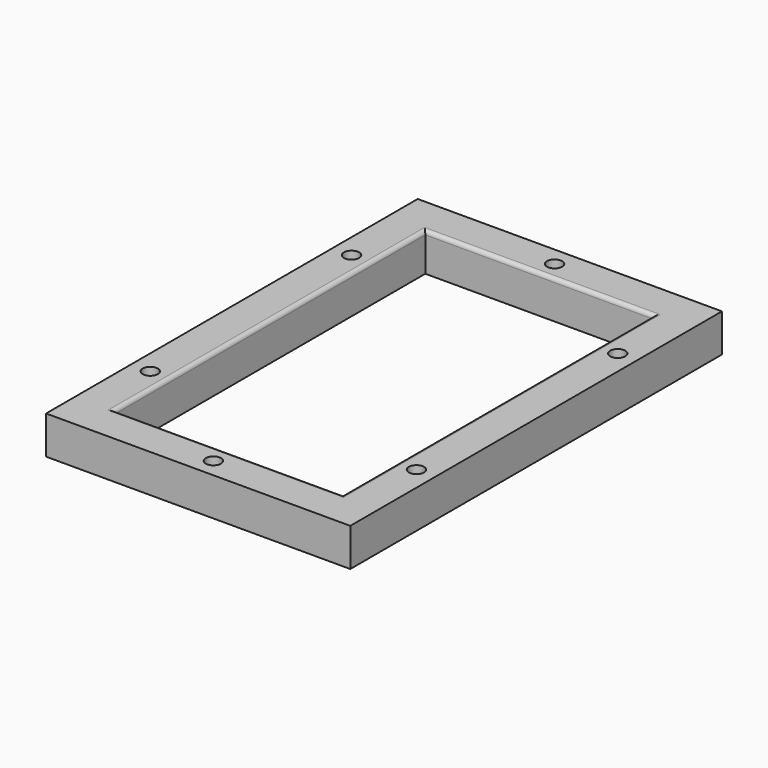
from build123d import *

# Parameters (mm, degrees)
SKETCH_W    = 80
SKETCH_H    = 122.16
SKETCH_R    = 2
SKETCH_W_2  = 60
SKETCH_H_2  = 102.16
PAD_DEPTH   = 10
FILLET_R    = 1
FILLET001_R = 1


with BuildPart() as part:
    # Sketch → Pad (new body)
    with BuildSketch(Plane.XY):
        with Locations((45, 66.08)):
            Rectangle(SKETCH_W, SKETCH_H)
        with Locations((10, 99.16)):
            Circle(SKETCH_R, mode=Mode.SUBTRACT)
        with Locations((10, 33)):
            Circle(SKETCH_R, mode=Mode.SUBTRACT)
        with Locations((80, 99.16)):
            Circle(SKETCH_R, mode=Mode.SUBTRACT)
        with Locations((80, 33)):
            Circle(SKETCH_R, mode=Mode.SUBTRACT)
        with Locations((45, 122.16)):
            Circle(SKETCH_R, mode=Mode.SUBTRACT)
        with Locations((45, 10)):
            Circle(SKETCH_R, mode=Mode.SUBTRACT)
        with Locations((45, 66.08)):
            Rectangle(SKETCH_W_2, SKETCH_H_2, mode=Mode.SUBTRACT)
    extrude(amount=PAD_DEPTH)

    # Fillet
    fillet_edges = [part.edges().sort_by_distance(p)[0] for p in [
        (45, 117.16, 10),
        (15, 66.08, 10),
    ]]
    fillet(fillet_edges, radius=FILLET_R)

    # Fillet001
    fillet001_edges = [part.edges().sort_by_distance(p)[0] for p in [
        (45, 15, 10),
        (75, 66.08, 10),
    ]]
    fillet(fillet001_edges, radius=FILLET001_R)


solid = part.part
